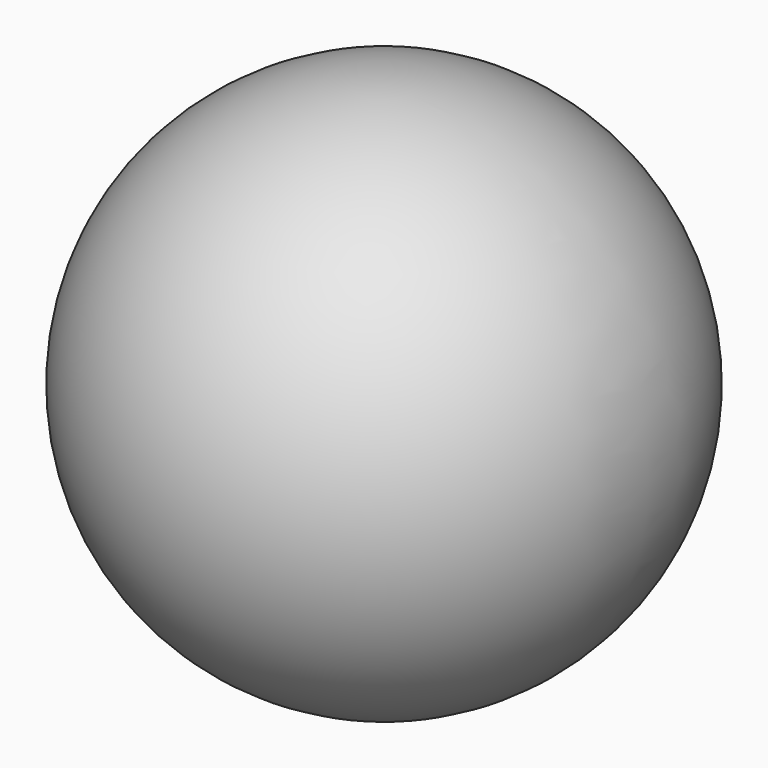
from build123d import *


with BuildPart() as part:
    # sphere → sphere (revolve)
    with BuildSketch(Plane.XZ):
        with BuildLine():
            ThreePointArc((0, -7.2), (7.2, 0), (0, 7.2))
            Line((0, 7.2), (0, -7.2))
        make_face()
    revolve(axis=Axis((0, 0, 0), (0, 0, 1)))


solid = part.part
